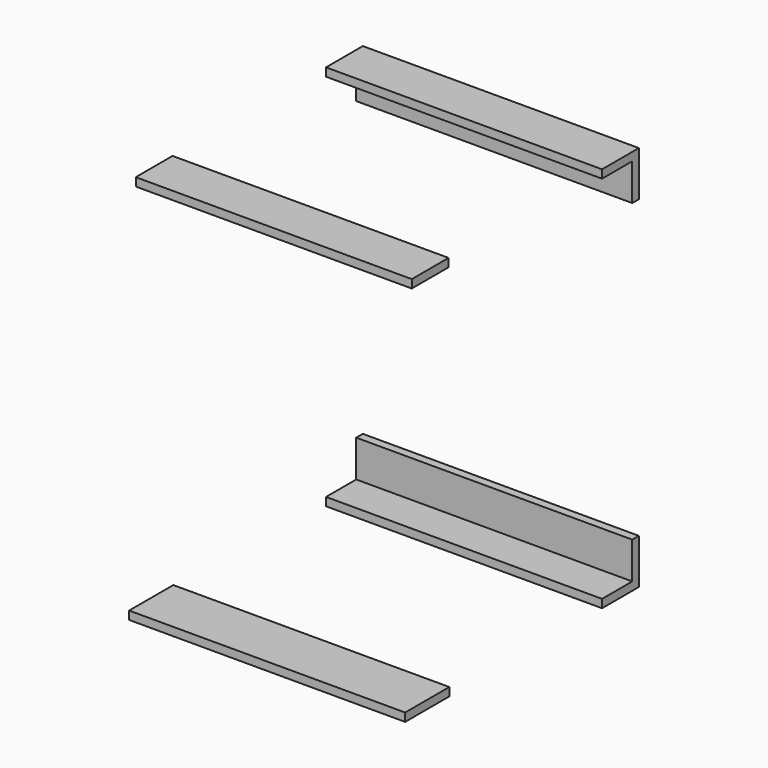
from build123d import *

# Parameters (mm, degrees)
F0_W     = 18
F0_H     = 80
F0_W_2   = 100
F0_H_2   = 18
F0_W_3   = 120
F1_DEPTH = 600


with BuildPart() as f1:
    # F0 (on Right) → F1 (new body)
    with BuildSketch(Plane.YZ):
        Polygon((317.5, 402), (317.5, 420), (217.5, 420), (217.5, 402), (299.5, 402), align=None)
        with Locations((308.5, 362)):
            Rectangle(F0_W, F0_H)
        with Locations((-249.5, 411)):
            Rectangle(F0_W_2, F0_H_2)
        with Locations((-257.5, -411)):
            Rectangle(F0_W_3, F0_H_2)
        Polygon((217.5, -420), (317.5, -420), (317.5, -402), (299.5, -402), (217.5, -402), align=None)
        with Locations((308.5, -362)):
            Rectangle(F0_W, F0_H)
    extrude(amount=F1_DEPTH)


solid = f1.part
